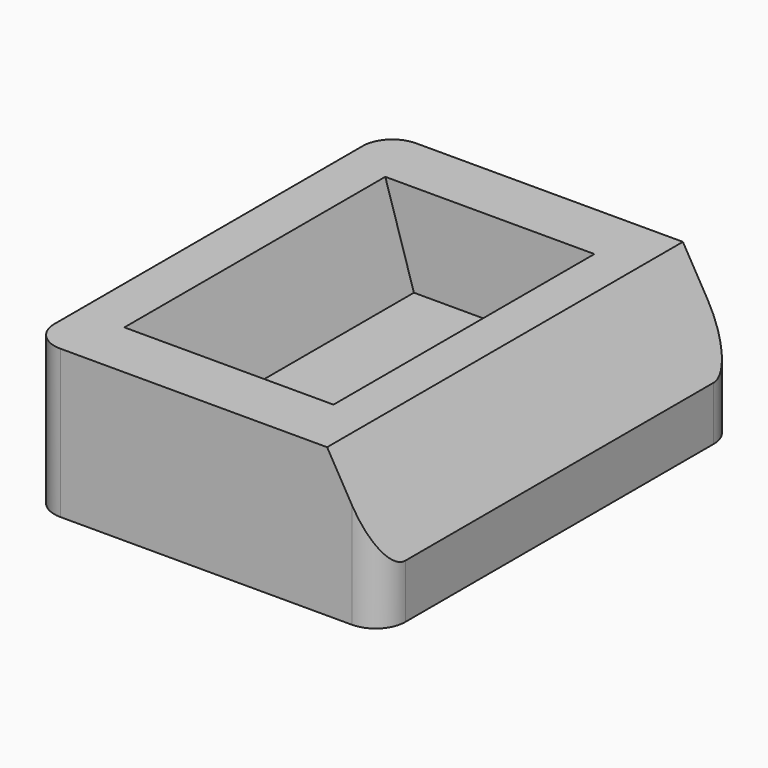
from build123d import *

# Parameters (mm, degrees)
F1_DEPTH = 38.1
F3_DEPTH = 27.94
F4_R     = 5.08


with BuildPart() as f1:
    # F0 (on Front) → F1 (new body, symmetric)
    with BuildSketch(Plane.XZ):
        Polygon((0, 25.4), (0, 0), (60.125147, 0), (60.125147, 9.248371), (50.8, 25.4), align=None)
    extrude(amount=F1_DEPTH, both=True)

    # F2 (on Front) → F3 (cut, symmetric)
    with BuildSketch(Plane.XZ):
        Polygon((43.762105, 25.4), (7.93214, 25.4), (12.838667, 9.5122), (43.762105, 9.5122), align=None)
    extrude(amount=F3_DEPTH, both=True, mode=Mode.SUBTRACT)

    # F4
    f4_edges = [f1.edges().sort_by_distance(p)[0] for p in [
        (0, -38.1, 12.7),
        (60.125147, -38.1, 4.624185),
        (60.125147, 38.1, 4.624185),
        (0, 38.1, 12.7),
    ]]
    fillet(f4_edges, radius=F4_R)


solid = f1.part
